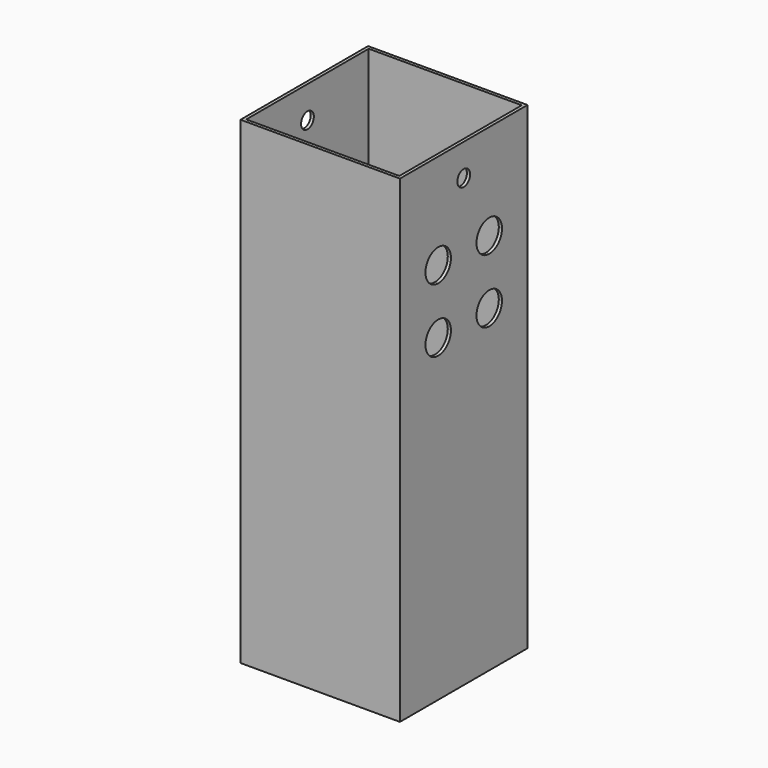
from build123d import *

# Parameters (mm, degrees)
F0_W     = 50
F0_H     = 50
F0_W_2   = 48
F0_H_2   = 48
F1_DEPTH = 150
F2_R     = 2.5
F3_DEPTH = 50


with BuildPart() as f1:
    # F0 (on Top) → F1 (new body)
    with BuildSketch(Plane.XY):
        with Locations((25, -8.0827108582)):
            Rectangle(F0_W, F0_H)
        with Locations((25, -8.0827108582)):
            Rectangle(F0_W_2, F0_H_2, mode=Mode.SUBTRACT)
    extrude(amount=F1_DEPTH)

    # F2 (on face) → F3 (cut)
    with BuildSketch(Plane.YZ.offset(50)):
        with Locations((-8.0827108582, 140)):
            Circle(F2_R)
        with BuildLine():
            Line((1.9172891418, 120), (-3.0827108582, 120))
            ThreePointArc((-3.0827108582, 120), (-1.6182447641, 116.4644660941), (1.9172891418, 115))
            Line((1.9172891418, 115), (1.9172891418, 120))
        make_face()
        with BuildLine():
            ThreePointArc((6.9172891418, 120), (1.9172891418, 125), (-3.0827108582, 120))
            Line((-3.0827108582, 120), (1.9172891418, 120))
            Line((1.9172891418, 120), (1.9172891418, 115))
            ThreePointArc((1.9172891418, 115), (5.4528230478, 116.4644660941), (6.9172891418, 120))
        make_face()
        with BuildLine():
            ThreePointArc((-13.0827108582, 100), (-14.5471769522, 103.5355339059), (-18.0827108582, 105))
            Line((-18.0827108582, 105), (-18.0827108582, 100))
            Line((-18.0827108582, 100), (-13.0827108582, 100))
        make_face()
        with BuildLine():
            Line((-18.0827108582, 100), (-18.0827108582, 105))
            ThreePointArc((-18.0827108582, 105), (-21.6182447641, 96.4644660941), (-13.0827108582, 100))
            Line((-13.0827108582, 100), (-18.0827108582, 100))
        make_face()
        with BuildLine():
            Line((1.9172891418, 100), (1.9172891418, 105))
            ThreePointArc((1.9172891418, 105), (-1.6182447641, 103.5355339059), (-3.0827108582, 100))
            Line((-3.0827108582, 100), (1.9172891418, 100))
        make_face()
        with BuildLine():
            ThreePointArc((6.9172891418, 100), (5.4528230478, 103.5355339059), (1.9172891418, 105))
            Line((1.9172891418, 105), (1.9172891418, 100))
            Line((1.9172891418, 100), (-3.0827108582, 100))
            ThreePointArc((-3.0827108582, 100), (1.9172891418, 95), (6.9172891418, 100))
        make_face()
        with BuildLine():
            Line((-18.0827108582, 120), (-18.0827108582, 125))
            ThreePointArc((-18.0827108582, 125), (-21.6182447641, 123.5355339059), (-23.0827108582, 120))
            Line((-23.0827108582, 120), (-18.0827108582, 120))
        make_face()
        with BuildLine():
            Line((-18.0827108582, 120), (-23.0827108582, 120))
            ThreePointArc((-23.0827108582, 120), (-21.6182447641, 116.4644660941), (-18.0827108582, 115))
            Line((-18.0827108582, 115), (-18.0827108582, 120))
        make_face()
        with BuildLine():
            ThreePointArc((-13.0827108582, 120), (-14.5471769522, 123.5355339059), (-18.0827108582, 125))
            Line((-18.0827108582, 125), (-18.0827108582, 120))
            Line((-18.0827108582, 120), (-13.0827108582, 120))
        make_face()
        with BuildLine():
            Line((-13.0827108582, 120), (-18.0827108582, 120))
            Line((-18.0827108582, 120), (-18.0827108582, 115))
            ThreePointArc((-18.0827108582, 115), (-14.5471769522, 116.4644660941), (-13.0827108582, 120))
        make_face()
    extrude(amount=-F3_DEPTH, mode=Mode.SUBTRACT)


solid = f1.part
